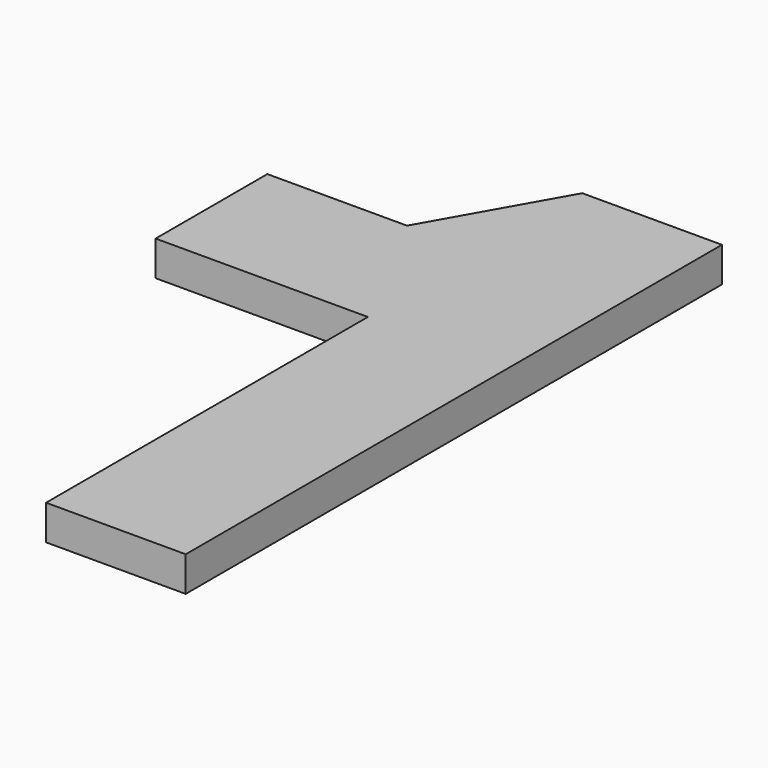
from build123d import *

# Parameters (mm, degrees)
F1_DEPTH = 25
F2_DEPTH = 25
F3_DEPTH = 25
F4_DEPTH = 25


with BuildPart() as f1:
    # F0 (on Top) → F1 (new body)
    with BuildSketch(Plane.XY):
        Polygon((-128.336711, 467.34343), (-228.336711, 467.34343), (-280.336711, 375.412752), (-380.336711, 375.412752), (-380.336711, 275.412752), (-228.336711, 275.412752), (-228.336711, -12.65657), (-128.336711, -12.65657), align=None)
    extrude(amount=F1_DEPTH)

    # F0 (on Top) → F2 (join)
    with BuildSketch(Plane.XY):
        Polygon((-128.336711, 467.34343), (-228.336711, 467.34343), (-280.336711, 375.412752), (-380.336711, 375.412752), (-380.336711, 275.412752), (-228.336711, 275.412752), (-228.336711, -12.65657), (-128.336711, -12.65657), align=None)
    extrude(amount=F2_DEPTH)

    # F0 (on Top) → F3 (join)
    with BuildSketch(Plane.XY):
        Polygon((-128.336711, 467.34343), (-228.336711, 467.34343), (-280.336711, 375.412752), (-380.336711, 375.412752), (-380.336711, 275.412752), (-228.336711, 275.412752), (-228.336711, -12.65657), (-128.336711, -12.65657), align=None)
    extrude(amount=F3_DEPTH)

    # F0 (on Top) → F4 (join)
    with BuildSketch(Plane.XY):
        Polygon((-128.336711, 467.34343), (-228.336711, 467.34343), (-280.336711, 375.412752), (-380.336711, 375.412752), (-380.336711, 275.412752), (-228.336711, 275.412752), (-228.336711, -12.65657), (-128.336711, -12.65657), align=None)
    extrude(amount=F4_DEPTH)


solid = f1.part
